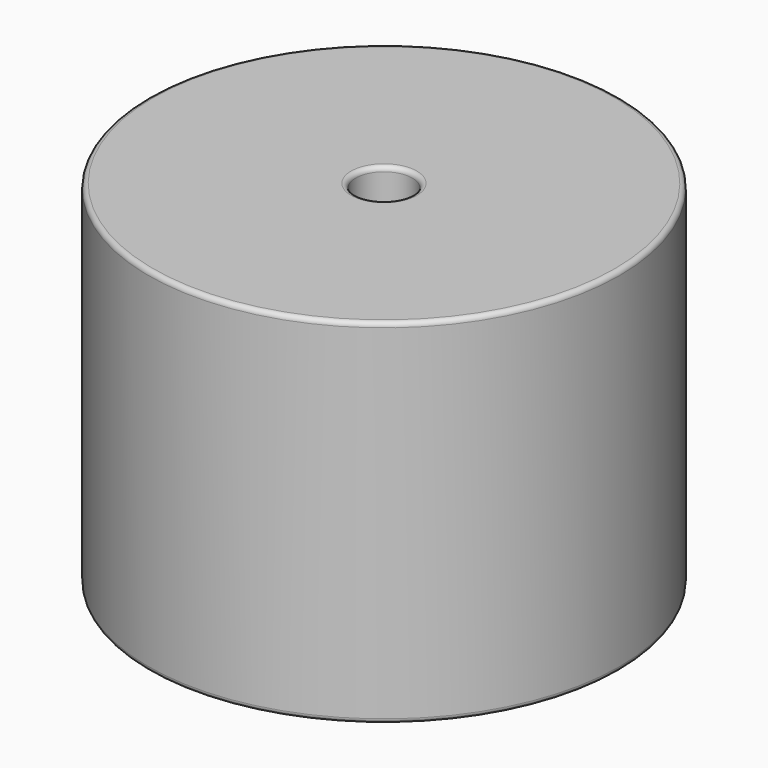
from build123d import *

# Parameters (mm, degrees)
SKETCH001_R       = 0.65
PAD001_DEPTH      = 19.05
PAD001_DEPTH_BACK = 3.5
SKETCH_R          = 25.4
SKETCH_R_2        = 3.05
PAD_DEPTH         = 38.1
FILLET_R          = 0.5


with BuildPart() as pad001:
    # Sketch001 → Pad001 (new body, two sides)
    with BuildSketch(Plane.XY.offset(0.5)) as pad001_sk:
        Circle(SKETCH001_R)
        with Locations((33.27, 0)):
            Circle(SKETCH001_R)
    extrude(amount=PAD001_DEPTH)
    extrude(pad001_sk.sketch, amount=-PAD001_DEPTH_BACK)


with BuildPart() as fillet_body:
    # Sketch → Pad (new body)
    with BuildSketch(Plane.XY.offset(0.1)):
        with Locations((16.635, 0)):
            Circle(SKETCH_R)
        with Locations((16.635, 0)):
            Circle(SKETCH_R_2, mode=Mode.SUBTRACT)
    extrude(amount=PAD_DEPTH)

    # Fillet
    fillet_edges = [fillet_body.edges().sort_by_distance(p)[0] for p in [
        (13.585, 0, 38.2),
        (-8.765, 0, 38.2),
        (-8.765, 0, 0.1),
    ]]
    fillet(fillet_edges, radius=FILLET_R)


solid = Compound([pad001.part, fillet_body.part])
